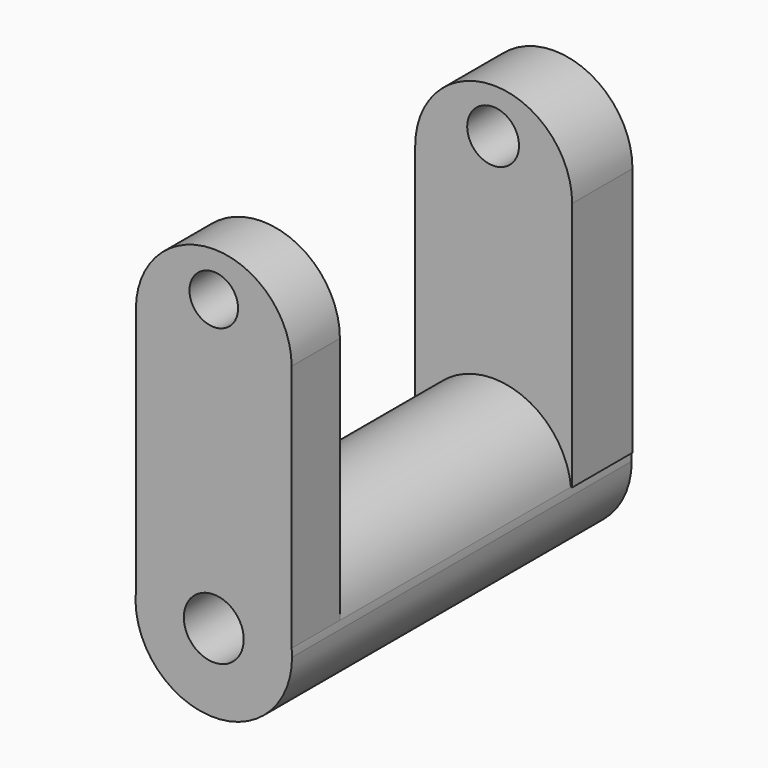
from build123d import *

# Parameters (mm, degrees)
F0_R     = 10.083222
F1_DEPTH = 143.002
F0_R_2   = 8.19027
F2_DEPTH = 20.32
F3_R     = 8.728843
F4_DEPTH = 25.4


with BuildPart() as f1:
    # F0 (on Front) → F1 (new body)
    with BuildSketch(Plane.XZ):
        with BuildLine():
            ThreePointArc((-26.225356, -40.907382), (-1.335133, -69.90099), (26.360602, -43.574221))
            ThreePointArc((26.360602, -43.574221), (26.326769, -42.239088), (26.225356, -40.907382))
            ThreePointArc((26.225356, -40.907382), (0, -17.213619), (-26.225356, -40.907382))
        make_face()
        with Locations((0, -43.574221)):
            Circle(F0_R, mode=Mode.SUBTRACT)
    extrude(amount=-F1_DEPTH)

    # F0 (on Front) → F2 (join)
    with BuildSketch(Plane.XZ):
        with BuildLine():
            ThreePointArc((-26.225356, -40.907382), (0, -17.213619), (26.225356, -40.907382))
            Line((26.225356, -40.907382), (26.225356, 42.681914))
            Line((26.225356, 42.681914), (-26.225356, 42.681914))
            Line((-26.225356, 42.681914), (-26.225356, -40.907382))
        make_face()
        with BuildLine():
            Line((-26.225356, 42.681914), (26.225356, 42.681914))
            ThreePointArc((26.225356, 42.681914), (0, 68.90727), (-26.225356, 42.681914))
        make_face()
        with Locations((0, 53.984441)):
            Circle(F0_R_2, mode=Mode.SUBTRACT)
    extrude(amount=-F2_DEPTH)


with BuildPart() as f4:
    # F3 (on face) → F4 (new body)
    with BuildSketch(Plane(origin=(0, 143.002, 0), x_dir=(-1, 0, 0), z_dir=(0, 1, 0))):
        with BuildLine():
            Line((-26.620427, 43.276783), (-26.620427, -40.941327))
            Line((-26.620427, -40.941327), (-26.228786, -40.941327))
            ThreePointArc((-26.228786, -40.941327), (0, -17.213619), (26.228786, -40.941327))
            Line((26.228786, -40.941327), (26.228786, 43.276783))
            ThreePointArc((26.228786, 43.276783), (-0.195821, 69.70139), (-26.620427, 43.276783))
        make_face()
        with Locations((0, 54.579314)):
            Circle(F3_R, mode=Mode.SUBTRACT)
    extrude(amount=-F4_DEPTH)


solid = Compound([f1.part, f4.part])
